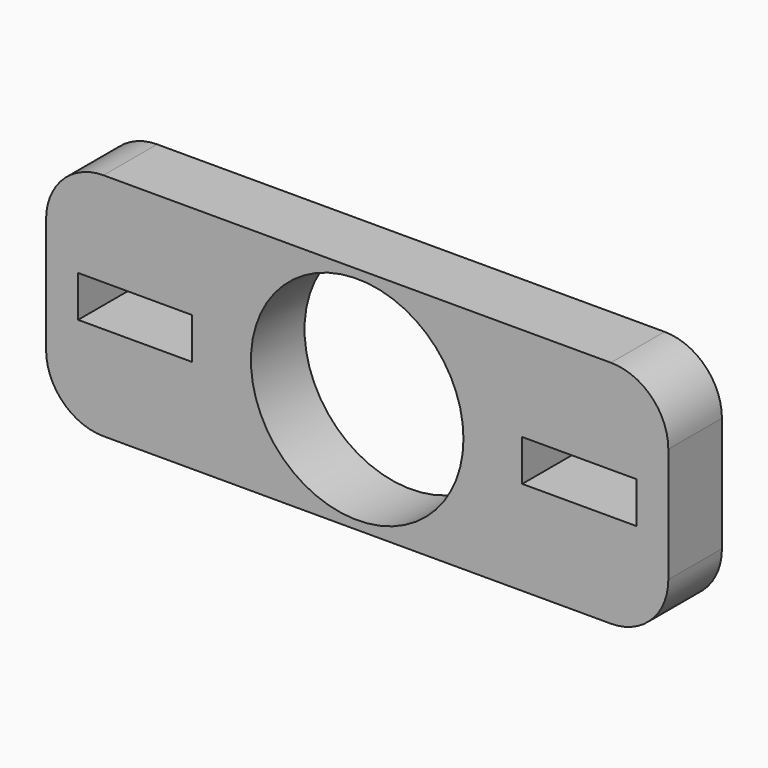
from build123d import *

# Parameters (mm, degrees)
F0_W     = 65
F0_H     = 24
F0_R     = 11.1
F1_DEPTH = 7
F2_R     = 6
F3_W     = 11.910181
F3_H     = 4.31511
F4_DEPTH = 7.001


with BuildPart() as f1:
    # F0 (on Front) → F1 (new body)
    with BuildSketch(Plane.XZ):
        Rectangle(F0_W, F0_H)
        Circle(F0_R, mode=Mode.SUBTRACT)
    extrude(amount=F1_DEPTH)

    # F2
    f2_edges = [f1.edges().sort_by_distance(p)[0] for p in [
        (-32.5, -3.5, 12),
        (-32.5, -3.5, -12),
        (32.5, -3.5, -12),
        (32.5, -3.5, 12),
    ]]
    fillet(f2_edges, radius=F2_R)

    # F3 (on face) → F4 (cut, through all)
    with BuildSketch(Plane.XZ.offset(7)):
        with Locations((-23.196599, 0)):
            Rectangle(F3_W, F3_H)
        with Locations((23.196599, 0)):
            Rectangle(F3_W, F3_H)
    extrude(amount=-F4_DEPTH, mode=Mode.SUBTRACT)


solid = f1.part
